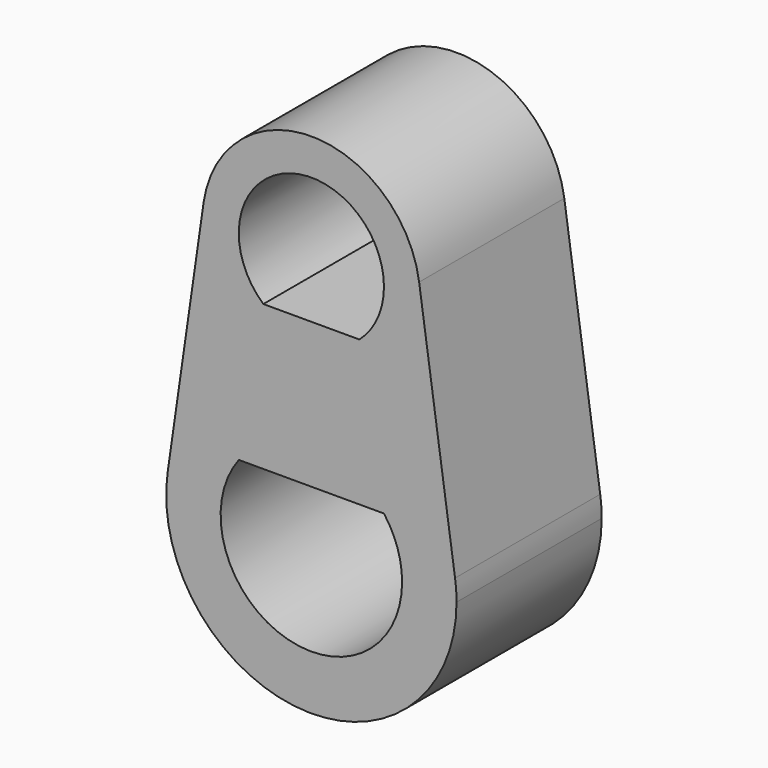
from build123d import *

# Parameters (mm, degrees)
F1_DEPTH = 5


with BuildPart() as f1:
    # F0 (on Front) → F1 (new body)
    with BuildSketch(Plane.XZ):
        with BuildLine():
            ThreePointArc((0, -3), (2.12132, -2.12132), (3, 0))
            ThreePointArc((3, 0), (2.992298, 0.214837), (2.96923, 0.428571))
            ThreePointArc((2.96923, 0.428571), (0, 3), (-2.96923, 0.428571))
            ThreePointArc((-2.96923, 0.428571), (-2.267787, -1.963961), (0, -3))
        make_face()
        with BuildLine():
            ThreePointArc((-1.322876, -1.5), (-0.822876, 1.822876), (2, 0))
            ThreePointArc((2, 0), (1.822876, -0.822876), (1.322876, -1.5))
            ThreePointArc((1.322876, -1.5), (0, -2), (-1.322876, -1.5))
        make_face(mode=Mode.SUBTRACT)
        with BuildLine():
            ThreePointArc((2.96923, 0.428571), (2.992298, 0.214837), (3, 0))
            ThreePointArc((3, 0), (2.12132, -2.12132), (0, -3))
            ThreePointArc((0, -3), (2.618615, -3.976284), (3.958973, -6.428571))
            Line((3.958973, -6.428571), (2.96923, 0.428571))
        make_face()
        with BuildLine():
            ThreePointArc((-3.958973, -6.428571), (-2.618615, -3.976284), (0, -3))
            ThreePointArc((0, -3), (-2.267787, -1.963961), (-2.96923, 0.428571))
            Line((-2.96923, 0.428571), (-3.958973, -6.428571))
        make_face()
        with BuildLine():
            ThreePointArc((3.958973, -6.428571), (2.618615, -3.976284), (0, -3))
            ThreePointArc((0, -3), (-2.618615, -3.976284), (-3.958973, -6.428571))
            ThreePointArc((-3.958973, -6.428571), (-0.28645, -10.98973), (4, -7))
            ThreePointArc((4, -7), (3.98973, -6.71355), (3.958973, -6.428571))
        make_face()
        with BuildLine():
            ThreePointArc((2, -5.5), (2.371708, -6.209431), (2.5, -7))
            ThreePointArc((2.5, -7), (-0.790569, -9.371708), (-2, -5.5))
            ThreePointArc((-2, -5.5), (0, -4.5), (2, -5.5))
        make_face(mode=Mode.SUBTRACT)
        with BuildLine():
            Line((-2, -5.5), (2, -5.5))
            ThreePointArc((2, -5.5), (0, -4.5), (-2, -5.5))
        make_face()
        with BuildLine():
            Line((1.322876, -1.5), (-1.322876, -1.5))
            ThreePointArc((-1.322876, -1.5), (0, -2), (1.322876, -1.5))
        make_face()
    extrude(amount=F1_DEPTH)


solid = f1.part
